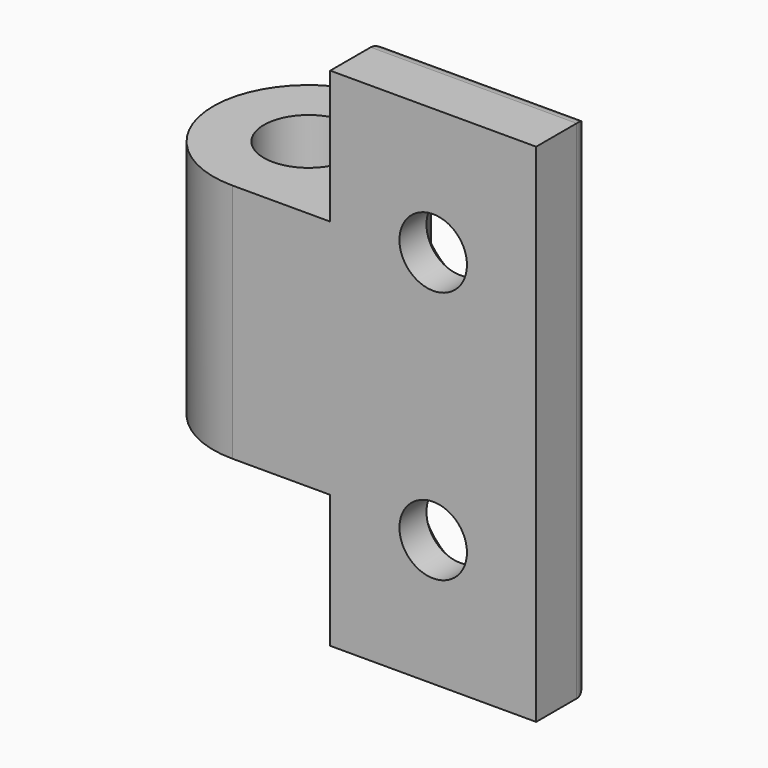
from build123d import *

# Parameters (mm, degrees)
PAD001_DEPTH     = 30
SKETCH003_W      = 15
SKETCH003_H      = 15
POCKET001_DEPTH  = 11.301
SKETCH004_R      = 2.5
PAD002_DEPTH     = 30
HOLE_D           = 4
HOLE_CSINK_D     = 8
HOLE_CSINK_ANGLE = 90
SKETCH006_R      = 2.65
POCKET002_DEPTH  = 30.001
FILLET001_R      = 1


with BuildPart() as part:
    # Sketch002 → Pad001 (new body)
    with BuildSketch(Plane.XY):
        with BuildLine():
            Line((120, 0), (138, 0))
            Line((138, 0), (138, 4))
            Line((138, 4), (125.403702, 4))
            ThreePointArc((125.403702, 4), (116.638453, 10.1912), (120, 0))
        make_face()
    extrude(amount=PAD001_DEPTH)

    # Sketch003 (on Face1 of Pad001) → Pocket001 (cut, through all)
    with BuildSketch(Plane.XZ):
        with Locations((118.3, 29.625)):
            Rectangle(SKETCH003_W, SKETCH003_H)
        with Locations((118.3, 0.375)):
            Rectangle(SKETCH003_W, SKETCH003_H)
    extrude(amount=-POCKET001_DEPTH, mode=Mode.SUBTRACT)

    # Sketch004 → Pad002 (join)
    with BuildSketch(Plane.XY):
        with Locations((120, 5.65)):
            Circle(SKETCH004_R)
    extrude(amount=PAD002_DEPTH)

    # Hole (through all)
    with Locations(Plane(origin=(0, 4, 0), x_dir=(-1, 0, 0), z_dir=(0, 1, 0))):
        with Locations((-131.9, 22.5), (-131.9, 7.5)):
            CounterSinkHole(HOLE_D / 2, HOLE_CSINK_D / 2, counter_sink_angle=HOLE_CSINK_ANGLE)

    # Sketch006 → Pocket002 (cut, through all)
    with BuildSketch(Plane.XY.offset(30)):
        with Locations((120, 5.65)):
            Circle(SKETCH006_R)
    extrude(amount=-POCKET002_DEPTH, mode=Mode.SUBTRACT)

    # Fillet001
    fillet001_edges = [part.edges().sort_by_distance(p)[0] for p in [
        (138, 4, 15),
        (131.9, 4, 0),
        (125.8, 4, 3.9375),
        (125.8, 4, 26.0625),
        (131.9, 4, 30),
    ]]
    fillet(fillet001_edges, radius=FILLET001_R)


solid = part.part
